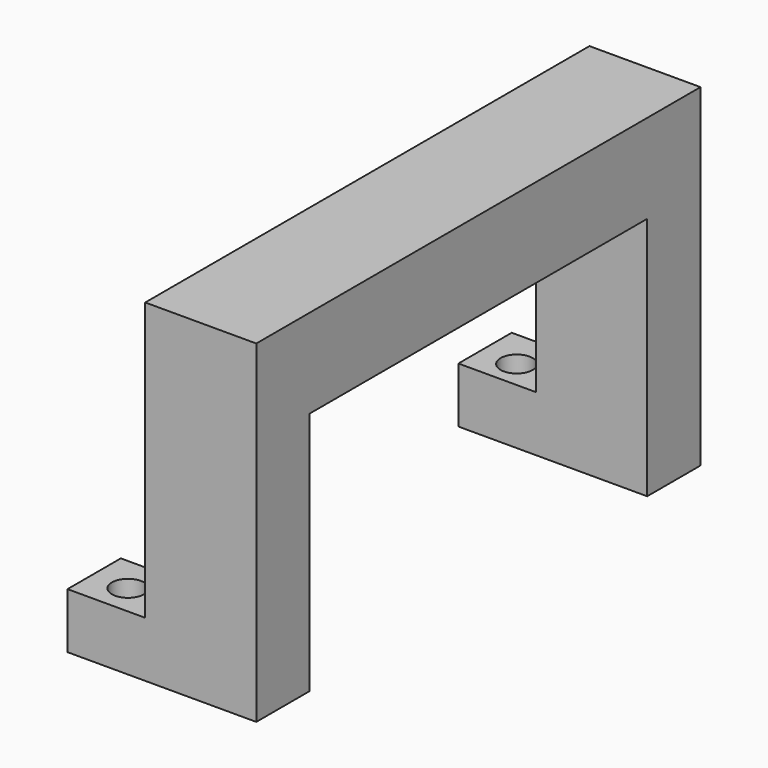
from build123d import *

# Parameters (mm, degrees)
SKETCH132_W   = 12
SKETCH132_H   = 44
SKETCH132_W_2 = 100
SKETCH132_H_2 = 16
PAD051_DEPTH  = 20
SKETCH134_W   = 15
SKETCH134_H   = 12
PAD052_DEPTH  = 10
SKETCH133_R   = 2.9
HOLE008_DEPTH = 25


with BuildPart() as part:
    # Sketch132 → Pad051 (new body)
    with BuildSketch(Plane.YZ):
        with Locations((-42, 60)):
            Rectangle(SKETCH132_W, SKETCH132_H)
        with Locations((46, 60)):
            Rectangle(SKETCH132_W, SKETCH132_H)
        with Locations((2, 90)):
            Rectangle(SKETCH132_W_2, SKETCH132_H_2)
    extrude(amount=PAD051_DEPTH)

    # Sketch134 → Pad052 (join)
    with BuildSketch(Plane.XY.offset(38)):
        with Locations((-6.5, -42)):
            Rectangle(SKETCH134_W, SKETCH134_H)
        with Locations((-6.5, 46)):
            Rectangle(SKETCH134_W, SKETCH134_H)
    extrude(amount=PAD052_DEPTH)

    # Sketch133 → Hole008 (cut)
    with BuildSketch(Plane.XY.offset(48)):
        with Locations((-7.5, 45)):
            Circle(SKETCH133_R)
        with Locations((-7.5, -42.5)):
            Circle(SKETCH133_R)
    extrude(amount=-HOLE008_DEPTH, mode=Mode.SUBTRACT)


with BuildPart() as part_1:
    # Body080 placement: moved
    add(part.part.moved(Location((147, -2, 11))))


solid = part_1.part
